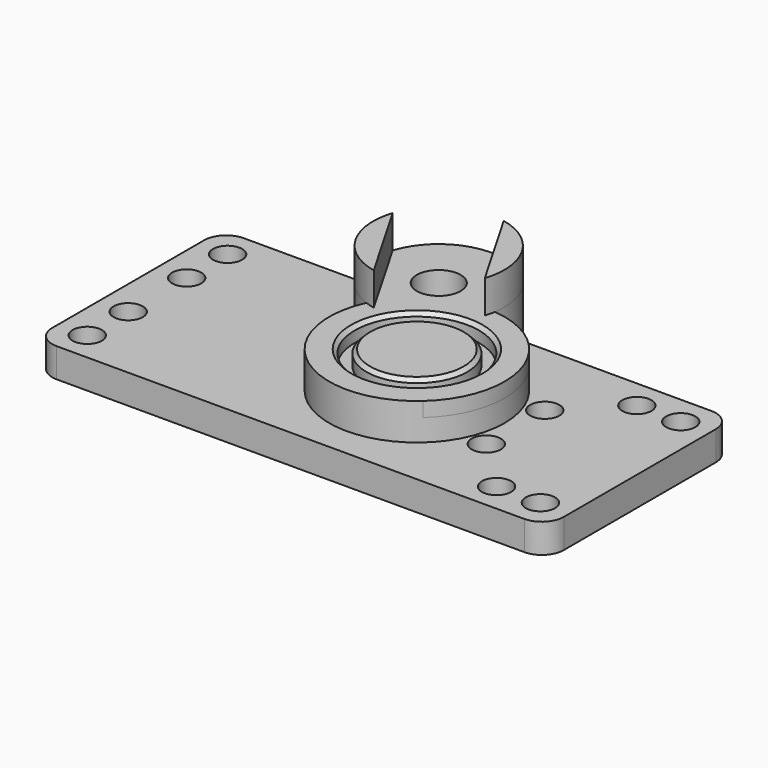
from build123d import *

# Parameters (mm, degrees)
SKETCH_R        = 12
SKETCH_R_2      = 8.5
PAD_DEPTH       = 2
SKETCH001_R     = 8.5
SKETCH001_R_2   = 3
PAD001_DEPTH    = 5
SKETCH002_R     = 8.5
PAD002_DEPTH    = 3
SKETCH003_R     = 6.9
PAD003_DEPTH    = 2
PAD004_DEPTH    = 4.5
SKETCH005_R     = 2
PAD005_DEPTH    = 4
SKETCH006_R     = 3
POCKET_DEPTH    = 5
CHAMFER_SIZE    = 0.5
CHAMFER001_SIZE = 0.5
FILLET_R        = 3


with BuildPart() as part:
    # Sketch → Pad (new body)
    with BuildSketch(Plane.XY):
        Circle(SKETCH_R)
        Circle(SKETCH_R_2, mode=Mode.SUBTRACT)
    extrude(amount=PAD_DEPTH)

    # Sketch001 (on Face4 of Pad) → Pad001 (join)
    with BuildSketch(Plane.XY.offset(2)):
        with BuildLine():
            ThreePointArc((1.128054, 11.946861), (-12.25, 21.217622), (-10.910313, 4.996507))
            ThreePointArc((-10.910313, 4.996507), (6, -10.392305), (1.128054, 11.946861))
        make_face()
        Circle(SKETCH001_R, mode=Mode.SUBTRACT)
        with Locations((-7.75, 13.423394)):
            Circle(SKETCH001_R_2, mode=Mode.SUBTRACT)
    extrude(amount=-PAD001_DEPTH)

    # Sketch002 (on Face6 of Pad001) → Pad002 (join)
    with BuildSketch(Plane(origin=(0, 0, -3), x_dir=(1, 0, 0), z_dir=(0, 0, -1))):
        Circle(SKETCH002_R)
    extrude(amount=-PAD002_DEPTH)

    # Sketch003 (on Face11 of Pad002) → Pad003 (join)
    with BuildSketch(Plane.XY):
        Circle(SKETCH003_R)
    extrude(amount=PAD003_DEPTH)

    # Sketch004 (on Face7 of Pad003) → Pad004 (join)
    with BuildSketch(Plane.XY.offset(2)):
        with BuildLine():
            Line((-16.300254, 16.232869), (-9.59205, 4.613919))
            ThreePointArc((-16.300254, 16.232869), (-15.544229, 8.923394), (-9.59205, 4.613919))
        make_face()
        with BuildLine():
            Line((0.800254, 10.613919), (-5.90795, 22.232869))
            ThreePointArc((0.800254, 10.613919), (0.044229, 17.923394), (-5.90795, 22.232869))
        make_face()
    extrude(amount=PAD004_DEPTH)

    # Sketch005 (on Face19 of Pad004) → Pad005 (join)
    with BuildSketch(Plane.XY.offset(-3)):
        with BuildLine():
            Line((-39.5, 16), (-16.373288, 16))
            ThreePointArc((0.873288, 16), (-7.75, 22.423394), (-16.373288, 16))
            Line((0.873288, 16), (17.5, 16))
            Line((17.5, 16), (24.5, 16))
            Line((24.5, 16), (30.5, 16))
            Line((30.5, 16), (30.5, -16))
            Line((-39.5, -16), (30.5, -16))
            Line((-39.5, -16), (-39.5, 16))
        make_face()
        with Locations((-35.5, 5)):
            Circle(SKETCH005_R, mode=Mode.SUBTRACT)
        with Locations((-35.5, -5)):
            Circle(SKETCH005_R, mode=Mode.SUBTRACT)
        with Locations((13.5, 5)):
            Circle(SKETCH005_R, mode=Mode.SUBTRACT)
        with Locations((13.5, -5)):
            Circle(SKETCH005_R, mode=Mode.SUBTRACT)
        with Locations((-35.5, 12)):
            Circle(SKETCH005_R, mode=Mode.SUBTRACT)
        with Locations((-35.5, -12)):
            Circle(SKETCH005_R, mode=Mode.SUBTRACT)
        with Locations((20.5, 12)):
            Circle(SKETCH005_R, mode=Mode.SUBTRACT)
        with Locations((20.5, -12)):
            Circle(SKETCH005_R, mode=Mode.SUBTRACT)
        with Locations((26.5, -12)):
            Circle(SKETCH005_R, mode=Mode.SUBTRACT)
        with Locations((26.5, 12)):
            Circle(SKETCH005_R, mode=Mode.SUBTRACT)
    extrude(amount=-PAD005_DEPTH)

    # Sketch006 → Pocket (cut)
    with BuildSketch(Plane.XY.offset(-3)):
        with Locations((-7.75, 13.423394)):
            Circle(SKETCH006_R)
    extrude(amount=-POCKET_DEPTH, mode=Mode.SUBTRACT)

    # Chamfer
    chamfer_edges = [part.edges().sort_by_distance(p)[0] for p in [
        (-8.5, 0, 2),
    ]]
    chamfer(chamfer_edges, length=CHAMFER_SIZE)

    # Chamfer001
    chamfer001_edges = [part.edges().sort_by_distance(p)[0] for p in [
        (-6.9, 0, 2),
    ]]
    chamfer(chamfer001_edges, length=CHAMFER001_SIZE)

    # Fillet
    fillet_edges = [part.edges().sort_by_distance(p)[0] for p in [
        (-39.5, -16, -5),
        (-39.5, 16, -5),
        (30.5, -16, -5),
        (30.5, 16, -5),
    ]]
    fillet(fillet_edges, radius=FILLET_R)


solid = part.part
